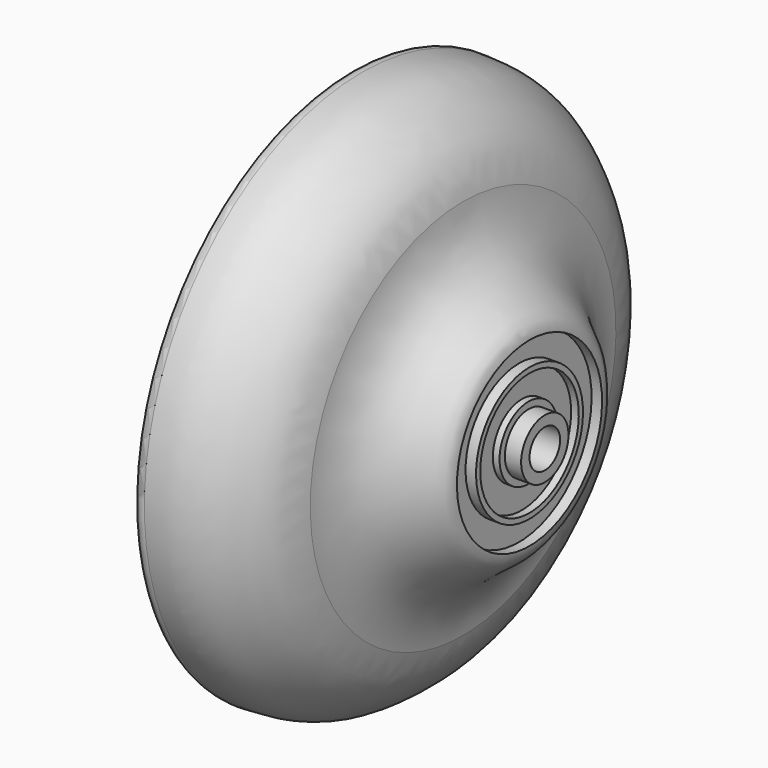
from build123d import *


with BuildPart() as f1:
    # F0 (on Front) → F1 (revolve)
    with BuildSketch(Plane.XZ):
        Polygon((-5.9, 2), (-0.5, 2), (-0.5, 3.1), (-2.2, 3.1), (-2.2, 3.8), (-2.9, 3.8), (-3.5, 3.8), (-3.5, 3.3757365309), (-4.9, 3.3757365309), (-4.9, 3.8), (-5.9, 3.8), (-5.9, 4.5), (-6.9, 4.5), align=None)
        with BuildLine():
            add(Edge.make_bspline(
                [(-19.8783872837, 19.3511211455), (-16.0738958643, 20.1366857339), (-17.2575762667, 14.0760625268), (-11.024296557, 10.9833963388), (-8.3188561277, 7.0304979563), (-6.9, 4.5)],
                knots=[0, 0, 0, 0, 0.3101041793, 0.6370176442, 1, 1, 1, 1], degree=3))
            Line((-6.9, 4.5), (-5.9, 4.5))
            Line((-5.9, 4.5), (-5.9, 3.8))
            Line((-5.9, 3.8), (-4.9, 3.8))
            Line((-4.9, 3.8), (-3.5, 3.8))
            Line((-3.5, 3.8), (-2.9, 3.8))
            Line((-2.9, 3.8), (-2.9, 6.45))
            Line((-2.9, 6.45), (-2.1, 6.45))
            Line((-2.1, 6.45), (-2.1, 7))
            Line((-2.1, 7), (-3.2, 7))
            Line((-3.2, 7), (-3.2, 9.5))
            Line((-3.2, 9.5), (-2.1, 9.5))
            add(Edge.make_bspline(
                [(-9.0586464718, 20.0081148872), (-8.8628817248, 16.4338502747), (-5.921002061, 12.9907163228), (-2.1130685586, 10.9872101309), (-2.1, 9.5)],
                knots=[0, 0, 0, 0, 0.5651715207, 1, 1, 1, 1], degree=3))
            add(Edge.make_bspline(
                [(-19.6517588764, 28.4854220784), (-16.185617255, 28.5), (-13.5432381215, 26.8045938567), (-9.7846955238, 23.7508590909), (-9.0586464718, 20.0081148872)],
                knots=[0, 0, 0, 0, 0.4763551336, 1, 1, 1, 1], degree=3))
            ThreePointArc((-19.6517588764, 28.4854220784), (-20.5707878518, 28.2488703206), (-20.8783872837, 27.3511211455))
            Line((-20.8783872837, 27.3511211455), (-20.8783872837, 20.3511211455))
            ThreePointArc((-20.8783872837, 20.3511211455), (-20.5854940649, 19.6440143644), (-19.8783872837, 19.3511211455))
        make_face()
    revolve(axis=Axis((-11, 0, 0), (-1, 0, 0)))


solid = f1.part
